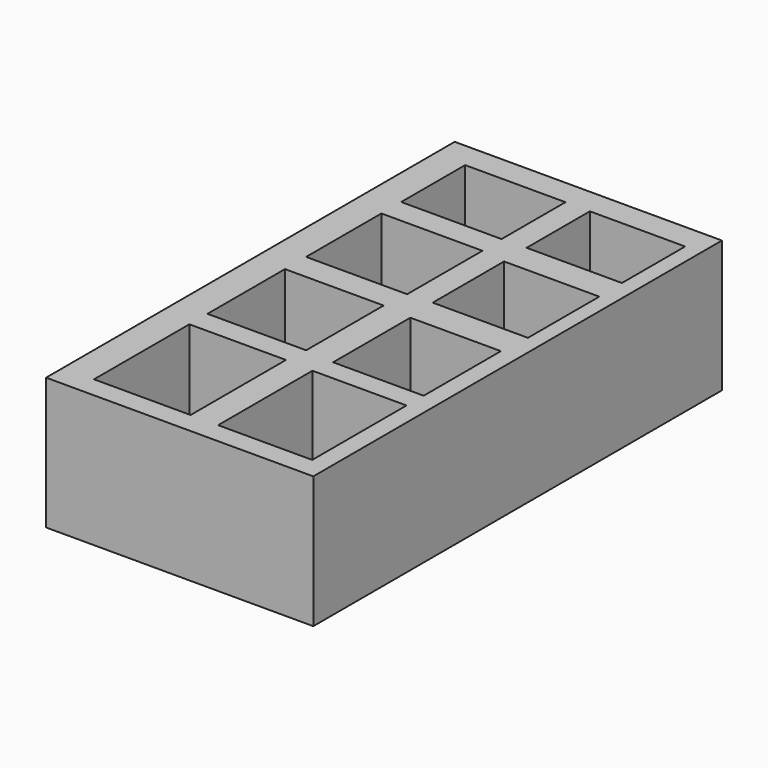
from build123d import *

# Parameters (mm, degrees)
F0_W     = 790
F0_H     = 1510
F1_DEPTH = 390
F2_W     = 278.099507
F2_H     = 348.54418
F2_W_2   = 285.572141
F2_H_2   = 352.323413
F2_W_3   = 291.657448
F2_H_3   = 286.359876
F2_W_4   = 298.689723
F2_H_4   = 278.19264
F2_W_5   = 296.625018
F2_H_5   = 236.151218
F2_W_6   = 281.693279
F2_H_6   = 233.602285
F2_W_7   = 281.512797
F2_H_7   = 263.727546
F2_W_8   = 267.669439
F2_H_8   = 285.350889
F3_DEPTH = 390.001


with BuildPart() as f1:
    # F0 (on Top) → F1 (new body)
    with BuildSketch(Plane.XY):
        with Locations((303.370577, 692.383369)):
            Rectangle(F0_W, F0_H)
    extrude(amount=F1_DEPTH)

    # F2 (on face) → F3 (cut, through all)
    with BuildSketch(Plane.XY.offset(390)):
        with Locations((505.953088, 174.27209)):
            Rectangle(F2_W, F2_H)
        with Locations((142.78607, 176.161706)):
            Rectangle(F2_W_2, F2_H_2)
        with Locations((145.828724, 562.481895)):
            Rectangle(F2_W_3, F2_H_3)
        with Locations((149.344861, 922.88059)):
            Rectangle(F2_W_4, F2_H_4)
        with Locations((148.312509, 1253.32129)):
            Rectangle(F2_W_5, F2_H_5)
        with Locations((509.95627, 1254.127621)):
            Rectangle(F2_W_6, F2_H_6)
        with Locations((511.870533, 919.603288)):
            Rectangle(F2_W_7, F2_H_7)
        with Locations((511.639655, 554.016485)):
            Rectangle(F2_W_8, F2_H_8)
    extrude(amount=-F3_DEPTH, mode=Mode.SUBTRACT)


solid = f1.part
